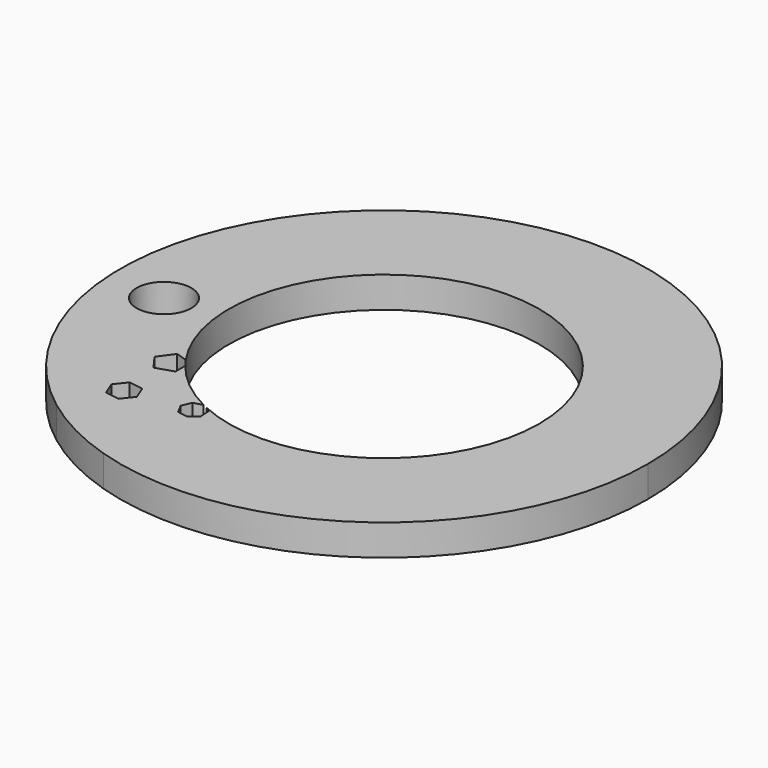
from build123d import *

# Parameters (mm, degrees)
F0_R     = 1.763391
F1_DEPTH = 2


with BuildPart() as f1:
    # F0 (on Top) → F1 (new body)
    with BuildSketch(Plane.XY):
        with BuildLine():
            ThreePointArc((-50.496385, -16.224585), (-35.35308, -13.698304), (-28.420674, 0))
            ThreePointArc((-28.420674, 0), (-52.991649, 15.221049), (-55.677185, -13.557433))
            ThreePointArc((-55.677185, -13.557433), (-53.201914, -15.114639), (-50.496385, -16.224585))
        make_face()
        Polygon((-53.406199, -9.490022), (-53.05942, -10.356964), (-53.636825, -11.090755), (-54.561008, -10.957602), (-54.907787, -10.09066), (-54.330382, -9.35687), align=None, mode=Mode.SUBTRACT)
        with Locations((-58.710872, -1.104874)):
            Circle(F0_R, mode=Mode.SUBTRACT)
        with BuildLine():
            ThreePointArc((-53.652956, -5.677107), (-48.393651, 9.547848), (-35.420674, 0))
            ThreePointArc((-35.420674, 0), (-40.021569, -8.417224), (-49.590607, -9.089096))
            Line((-49.590607, -9.089096), (-49.258672, -9.328324))
            Line((-49.258672, -9.328324), (-49.22544, -10.010053))
            Line((-49.22544, -10.010053), (-49.737718, -10.461086))
            Line((-49.737718, -10.461086), (-50.409749, -10.341786))
            Line((-50.409749, -10.341786), (-50.735482, -9.741989))
            Line((-50.735482, -9.741989), (-50.469632, -9.113353))
            Line((-50.469632, -9.113353), (-49.883176, -8.949083))
            ThreePointArc((-49.883176, -8.949083), (-51.725054, -7.762397), (-53.264275, -6.203058))
            Line((-53.264275, -6.203058), (-53.264275, -6.988322))
            Line((-53.264275, -6.988322), (-54.391205, -7.354484))
            Line((-54.391205, -7.354484), (-55.087687, -6.39586))
            Line((-55.087687, -6.39586), (-54.391205, -5.437235))
            Line((-54.391205, -5.437235), (-53.652956, -5.677107))
        make_face(mode=Mode.SUBTRACT)
    extrude(amount=F1_DEPTH)


solid = f1.part
